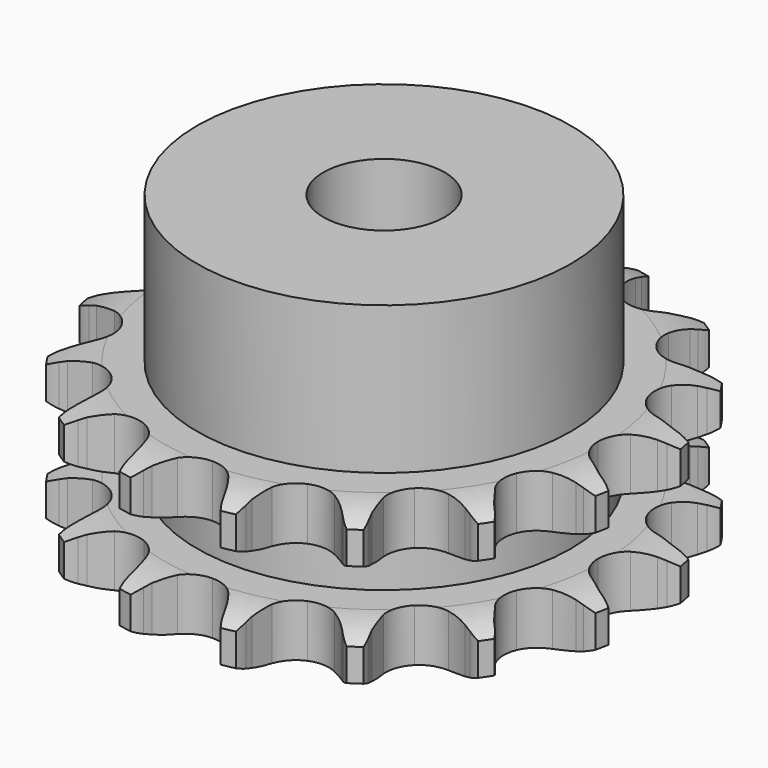
from build123d import *

# Parameters (mm, degrees)
PAD_DEPTH         = 15.4
SKETCH001_R       = 18.5
PAD001_DEPTH      = 30
SKETCH002_R       = 6
POCKET_DEPTH      = 0.001
POCKET_DEPTH_BACK = 30.001


with BuildPart() as part:
    # Sprocket → Pad (new body)
    with BuildSketch(Plane.XY):
        with BuildLine():
            ThreePointArc((-5.310667, 26.698526), (-4.508273, 25.848464), (-3.912951, 24.842466))
            Line((-3.912951, 24.842466), (-3.613995, 24.178808))
            ThreePointArc((-3.613995, 24.178808), (-3.122753, 23.250033), (-2.518227, 22.390678))
            ThreePointArc((-2.518227, 22.390678), (-1.396465, 21.500384), (0, 21.182795))
            ThreePointArc((0, 21.182795), (1.396465, 21.500384), (2.518227, 22.390678))
            ThreePointArc((2.518227, 22.390678), (3.122753, 23.250033), (3.613995, 24.178808))
            Line((3.613995, 24.178808), (3.912951, 24.842466))
            ThreePointArc((3.912951, 24.842466), (4.508273, 25.848464), (5.310667, 26.698526))
            ThreePointArc((5.310667, 26.698526), (5.726678, 25.606108), (5.891705, 24.448867))
            Line((5.891705, 24.448867), (5.913933, 23.721322))
            ThreePointArc((5.913933, 23.721322), (6.012355, 22.675256), (6.242003, 21.649973))
            ThreePointArc((6.242003, 21.649973), (6.937676, 20.398169), (8.106305, 19.57035))
            ThreePointArc((8.106305, 19.57035), (9.518006, 19.329361), (10.895081, 19.722606))
            Line((10.895081, 19.722606), (12.591725, 20.95529))
            ThreePointArc((12.591725, 20.95529), (12.851346, 21.210465), (13.121895, 21.454024))
            ThreePointArc((13.121895, 21.454024), (14.05688, 22.155625), (15.1235, 22.633917))
            ThreePointArc((15.1235, 22.633917), (15.089794, 21.465455), (14.799402, 20.33315))
            Line((14.799402, 20.33315), (14.541519, 19.65248))
            ThreePointArc((14.541519, 19.65248), (14.232137, 18.648376), (14.051945, 17.613256))
            ThreePointArc((14.051945, 17.613256), (14.215618, 16.190517), (14.978498, 14.978498))
            ThreePointArc((14.978498, 14.978498), (16.190517, 14.215618), (17.613256, 14.051945))
            Line((17.613256, 14.051945), (19.65248, 14.541519))
            ThreePointArc((19.65248, 14.541519), (19.989989, 14.677918), (20.33315, 14.799402))
            ThreePointArc((20.33315, 14.799402), (21.465455, 15.089794), (22.633917, 15.1235))
            ThreePointArc((22.633917, 15.1235), (22.155625, 14.05688), (21.454024, 13.121895))
            Line((21.454024, 13.121895), (20.95529, 12.591725))
            ThreePointArc((20.95529, 12.591725), (20.285204, 11.78245), (19.722606, 10.895081))
            ThreePointArc((19.722606, 10.895081), (19.329361, 9.518006), (19.57035, 8.106305))
            ThreePointArc((19.57035, 8.106305), (20.398169, 6.937676), (21.649973, 6.242003))
            Line((21.649973, 6.242003), (23.721322, 5.913933))
            ThreePointArc((23.721322, 5.913933), (24.085338, 5.91079), (24.448867, 5.891705))
            ThreePointArc((24.448867, 5.891705), (25.606108, 5.726678), (26.698526, 5.310667))
            ThreePointArc((26.698526, 5.310667), (25.848464, 4.508273), (24.842466, 3.912951))
            Line((24.842466, 3.912951), (24.178808, 3.613995))
            ThreePointArc((24.178808, 3.613995), (23.250033, 3.122753), (22.390678, 2.518227))
            ThreePointArc((22.390678, 2.518227), (21.500384, 1.396465), (21.182795, 0))
            ThreePointArc((21.182795, 0), (21.500384, -1.396465), (22.390678, -2.518227))
            Line((22.390678, -2.518227), (24.178808, -3.613995))
            ThreePointArc((24.178808, -3.613995), (24.513912, -3.756202), (24.842466, -3.912951))
            ThreePointArc((24.842466, -3.912951), (25.848464, -4.508273), (26.698526, -5.310667))
            ThreePointArc((26.698526, -5.310667), (25.606108, -5.726678), (24.448867, -5.891705))
            Line((24.448867, -5.891705), (23.721322, -5.913933))
            ThreePointArc((23.721322, -5.913933), (22.675256, -6.012355), (21.649973, -6.242003))
            ThreePointArc((21.649973, -6.242003), (20.398169, -6.937676), (19.57035, -8.106305))
            ThreePointArc((19.57035, -8.106305), (19.329361, -9.518006), (19.722606, -10.895081))
            Line((19.722606, -10.895081), (20.95529, -12.591725))
            ThreePointArc((20.95529, -12.591725), (21.210465, -12.851346), (21.454024, -13.121895))
            ThreePointArc((21.454024, -13.121895), (22.155625, -14.05688), (22.633917, -15.1235))
            ThreePointArc((22.633917, -15.1235), (21.465455, -15.089794), (20.33315, -14.799402))
            Line((20.33315, -14.799402), (19.65248, -14.541519))
            ThreePointArc((19.65248, -14.541519), (18.648376, -14.232137), (17.613256, -14.051945))
            ThreePointArc((17.613256, -14.051945), (16.190517, -14.215618), (14.978498, -14.978498))
            ThreePointArc((14.978498, -14.978498), (14.215618, -16.190517), (14.051945, -17.613256))
            Line((14.051945, -17.613256), (14.541519, -19.65248))
            ThreePointArc((14.541519, -19.65248), (14.677918, -19.989989), (14.799402, -20.33315))
            ThreePointArc((14.799402, -20.33315), (15.089794, -21.465455), (15.1235, -22.633917))
            ThreePointArc((15.1235, -22.633917), (14.05688, -22.155625), (13.121895, -21.454024))
            Line((13.121895, -21.454024), (12.591725, -20.95529))
            ThreePointArc((12.591725, -20.95529), (11.78245, -20.285204), (10.895081, -19.722606))
            ThreePointArc((10.895081, -19.722606), (9.518006, -19.329361), (8.106305, -19.57035))
            ThreePointArc((8.106305, -19.57035), (6.937676, -20.398169), (6.242003, -21.649973))
            Line((6.242003, -21.649973), (5.913933, -23.721322))
            ThreePointArc((5.913933, -23.721322), (5.91079, -24.085338), (5.891705, -24.448867))
            ThreePointArc((5.891705, -24.448867), (5.726678, -25.606108), (5.310667, -26.698526))
            ThreePointArc((5.310667, -26.698526), (4.508273, -25.848464), (3.912951, -24.842466))
            Line((3.912951, -24.842466), (3.613995, -24.178808))
            ThreePointArc((3.613995, -24.178808), (3.122753, -23.250033), (2.518227, -22.390678))
            ThreePointArc((2.518227, -22.390678), (1.396465, -21.500384), (0, -21.182795))
            ThreePointArc((0, -21.182795), (-1.396465, -21.500384), (-2.518227, -22.390678))
            Line((-2.518227, -22.390678), (-3.613995, -24.178808))
            ThreePointArc((-3.613995, -24.178808), (-3.756202, -24.513912), (-3.912951, -24.842466))
            ThreePointArc((-3.912951, -24.842466), (-4.508273, -25.848464), (-5.310667, -26.698526))
            ThreePointArc((-5.310667, -26.698526), (-5.726678, -25.606108), (-5.891705, -24.448867))
            Line((-5.891705, -24.448867), (-5.913933, -23.721322))
            ThreePointArc((-5.913933, -23.721322), (-6.012355, -22.675256), (-6.242003, -21.649973))
            ThreePointArc((-6.242003, -21.649973), (-6.937676, -20.398169), (-8.106305, -19.57035))
            ThreePointArc((-8.106305, -19.57035), (-9.518006, -19.329361), (-10.895081, -19.722606))
            Line((-10.895081, -19.722606), (-12.591725, -20.95529))
            ThreePointArc((-12.591725, -20.95529), (-12.851346, -21.210465), (-13.121895, -21.454024))
            ThreePointArc((-13.121895, -21.454024), (-14.05688, -22.155625), (-15.1235, -22.633917))
            ThreePointArc((-15.1235, -22.633917), (-15.089794, -21.465455), (-14.799402, -20.33315))
            Line((-14.799402, -20.33315), (-14.541519, -19.65248))
            ThreePointArc((-14.541519, -19.65248), (-14.232137, -18.648376), (-14.051945, -17.613256))
            ThreePointArc((-14.051945, -17.613256), (-14.215618, -16.190517), (-14.978498, -14.978498))
            ThreePointArc((-14.978498, -14.978498), (-16.190517, -14.215618), (-17.613256, -14.051945))
            Line((-17.613256, -14.051945), (-19.65248, -14.541519))
            ThreePointArc((-19.65248, -14.541519), (-19.989989, -14.677918), (-20.33315, -14.799402))
            ThreePointArc((-20.33315, -14.799402), (-21.465455, -15.089794), (-22.633917, -15.1235))
            ThreePointArc((-22.633917, -15.1235), (-22.155625, -14.05688), (-21.454024, -13.121895))
            Line((-21.454024, -13.121895), (-20.95529, -12.591725))
            ThreePointArc((-20.95529, -12.591725), (-20.285204, -11.78245), (-19.722606, -10.895081))
            ThreePointArc((-19.722606, -10.895081), (-19.329361, -9.518006), (-19.57035, -8.106305))
            ThreePointArc((-19.57035, -8.106305), (-20.398169, -6.937676), (-21.649973, -6.242003))
            Line((-21.649973, -6.242003), (-23.721322, -5.913933))
            ThreePointArc((-23.721322, -5.913933), (-24.085338, -5.91079), (-24.448867, -5.891705))
            ThreePointArc((-24.448867, -5.891705), (-25.606108, -5.726678), (-26.698526, -5.310667))
            ThreePointArc((-26.698526, -5.310667), (-25.848464, -4.508273), (-24.842466, -3.912951))
            Line((-24.842466, -3.912951), (-24.178808, -3.613995))
            ThreePointArc((-24.178808, -3.613995), (-23.250033, -3.122753), (-22.390678, -2.518227))
            ThreePointArc((-22.390678, -2.518227), (-21.500384, -1.396465), (-21.182795, 0))
            ThreePointArc((-21.182795, 0), (-21.500384, 1.396465), (-22.390678, 2.518227))
            Line((-22.390678, 2.518227), (-24.178808, 3.613995))
            ThreePointArc((-24.178808, 3.613995), (-24.513912, 3.756202), (-24.842466, 3.912951))
            ThreePointArc((-24.842466, 3.912951), (-25.848464, 4.508273), (-26.698526, 5.310667))
            ThreePointArc((-26.698526, 5.310667), (-25.606108, 5.726678), (-24.448867, 5.891705))
            Line((-24.448867, 5.891705), (-23.721322, 5.913933))
            ThreePointArc((-23.721322, 5.913933), (-22.675256, 6.012355), (-21.649973, 6.242003))
            ThreePointArc((-21.649973, 6.242003), (-20.398169, 6.937676), (-19.57035, 8.106305))
            ThreePointArc((-19.57035, 8.106305), (-19.329361, 9.518006), (-19.722606, 10.895081))
            Line((-19.722606, 10.895081), (-20.95529, 12.591725))
            ThreePointArc((-20.95529, 12.591725), (-21.210465, 12.851346), (-21.454024, 13.121895))
            ThreePointArc((-21.454024, 13.121895), (-22.155625, 14.05688), (-22.633917, 15.1235))
            ThreePointArc((-22.633917, 15.1235), (-21.465455, 15.089794), (-20.33315, 14.799402))
            Line((-20.33315, 14.799402), (-19.65248, 14.541519))
            ThreePointArc((-19.65248, 14.541519), (-18.648376, 14.232137), (-17.613256, 14.051945))
            ThreePointArc((-17.613256, 14.051945), (-16.190517, 14.215618), (-14.978498, 14.978498))
            ThreePointArc((-14.978498, 14.978498), (-14.215618, 16.190517), (-14.051945, 17.613256))
            Line((-14.051945, 17.613256), (-14.541519, 19.65248))
            ThreePointArc((-14.541519, 19.65248), (-14.677918, 19.989989), (-14.799402, 20.33315))
            ThreePointArc((-14.799402, 20.33315), (-15.089794, 21.465455), (-15.1235, 22.633917))
            ThreePointArc((-15.1235, 22.633917), (-14.05688, 22.155625), (-13.121895, 21.454024))
            Line((-13.121895, 21.454024), (-12.591725, 20.95529))
            ThreePointArc((-12.591725, 20.95529), (-11.78245, 20.285204), (-10.895081, 19.722606))
            ThreePointArc((-10.895081, 19.722606), (-9.518006, 19.329361), (-8.106305, 19.57035))
            ThreePointArc((-8.106305, 19.57035), (-6.937676, 20.398169), (-6.242003, 21.649973))
            Line((-6.242003, 21.649973), (-5.913933, 23.721322))
            ThreePointArc((-5.913933, 23.721322), (-5.91079, 24.085338), (-5.891705, 24.448867))
            ThreePointArc((-5.891705, 24.448867), (-5.726678, 25.606108), (-5.310667, 26.698526))
        make_face()
    extrude(amount=PAD_DEPTH)

    # Sketch → Groove (revolve, cut)
    with BuildSketch(Plane.XZ):
        with BuildLine():
            ThreePointArc((21.791101, 0), (24.027169, 0.253206), (26.15, 1))
            Line((26.15, 1), (26.15, 4.2))
            ThreePointArc((26.15, 4.2), (24.027169, 4.946794), (21.791101, 5.2))
            Line((18.5, 5.2), (21.791101, 5.2))
            Line((18.5, 10.2), (18.5, 5.2))
            Line((21.791101, 10.2), (18.5, 10.2))
            ThreePointArc((21.791101, 10.2), (24.027169, 10.453206), (26.15, 11.2))
            Line((26.15, 11.2), (26.15, 14.4))
            ThreePointArc((26.15, 14.4), (24.027169, 15.146794), (21.791101, 15.4))
            Line((21.791101, 15.4), (31.791101, 15.4))
            Line((31.791101, 15.4), (31.791101, 0))
            Line((21.791101, 0), (31.791101, 0))
        make_face()
    revolve(axis=Axis((0, 0, 0), (0, 0, 1)), mode=Mode.SUBTRACT)

    # Sketch001 → Pad001 (join)
    with BuildSketch(Plane.XY):
        Circle(SKETCH001_R)
    extrude(amount=PAD001_DEPTH)

    # Sketch002 → Pocket (cut, two sides)
    with BuildSketch(Plane.XY) as pocket_sk:
        Circle(SKETCH002_R)
    extrude(amount=-POCKET_DEPTH, mode=Mode.SUBTRACT)
    extrude(pocket_sk.sketch, amount=POCKET_DEPTH_BACK, mode=Mode.SUBTRACT)


solid = part.part
